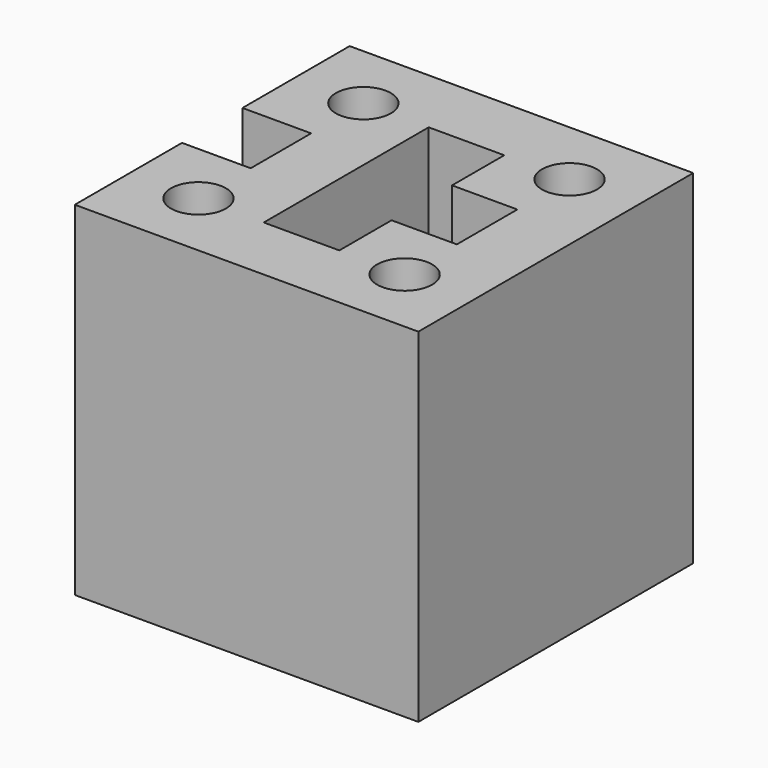
from build123d import *

# Parameters (mm, degrees)
F0_R     = 20
F1_DEPTH = 125


with BuildPart() as f1:
    # F0 (on Top) → F1 (new body, symmetric)
    with BuildSketch(Plane.XY):
        Polygon((125, -125), (125, 125), (-125, 125), (-125, 27.5), (-75, 27.5), (-75, -27.5), (-125, -27.5), (-125, -125), align=None)
        with Locations((-75, -75)):
            Circle(F0_R, mode=Mode.SUBTRACT)
        with Locations((75, -75)):
            Circle(F0_R, mode=Mode.SUBTRACT)
        with Locations((-75, 75)):
            Circle(F0_R, mode=Mode.SUBTRACT)
        Polygon((-27.5, -75), (-27.5, 75), (27.5, 75), (27.5, 27.5), (75, 27.5), (75, -27.5), (27.5, -27.5), (27.5, -75), align=None, mode=Mode.SUBTRACT)
        with Locations((75, 75)):
            Circle(F0_R, mode=Mode.SUBTRACT)
    extrude(amount=F1_DEPTH, both=True)


solid = f1.part
